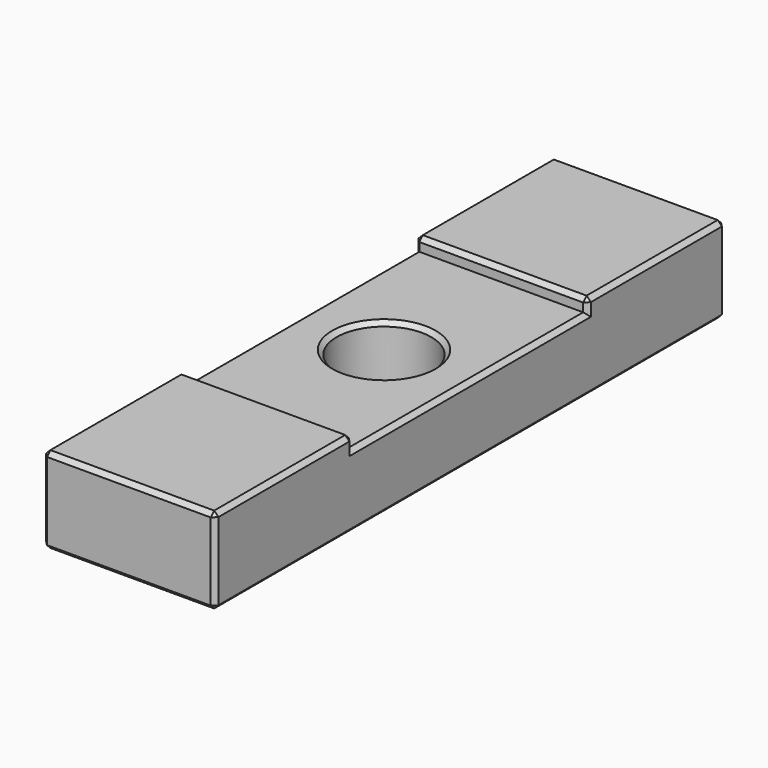
from build123d import *

# Parameters (mm, degrees)
F0_W     = 20
F0_H     = 74
F1_DEPTH = 10
F2_W     = 20
F2_H     = 34
F3_DEPTH = 1.5
F4_R     = 5.5
F5_DEPTH = 8.501
F6_SIZE  = 0.5


with BuildPart() as f1:
    # F0 (on Top) → F1 (new body)
    with BuildSketch(Plane.XY):
        Rectangle(F0_W, F0_H)
    extrude(amount=F1_DEPTH)

    # F2 (on face) → F3 (cut)
    with BuildSketch(Plane.XY.offset(10)):
        Rectangle(F2_W, F2_H)
    extrude(amount=-F3_DEPTH, mode=Mode.SUBTRACT)

    # F4 (on face) → F5 (cut, through all)
    with BuildSketch(Plane.XY.offset(8.5)):
        Circle(F4_R)
    extrude(amount=-F5_DEPTH, mode=Mode.SUBTRACT)

    # F6
    f6_edges = [f1.edges().sort_by_distance(p)[0] for p in [
        (-5.5, 0, 8.5),
        (10, -37, 5),
        (-10, -37, 5),
        (10, 37, 5),
        (-10, 37, 5),
        (-10, 0, 0),
        (0, -37, 0),
        (10, 0, 0),
        (0, 37, 0),
        (10, 27, 10),
        (-10, 27, 10),
        (-10, -27, 10),
        (10, -27, 10),
        (10, 0, 8.5),
        (-10, 0, 8.5),
        (0, 37, 10),
        (0, -37, 10),
        (-5.5, 0, 0),
        (0, 17, 10),
        (0, -17, 10),
        (-10, -17, 9.25),
        (-10, 17, 9.25),
        (10, 17, 9.25),
        (10, -17, 9.25),
    ]]
    chamfer(f6_edges, length=F6_SIZE)


solid = f1.part
